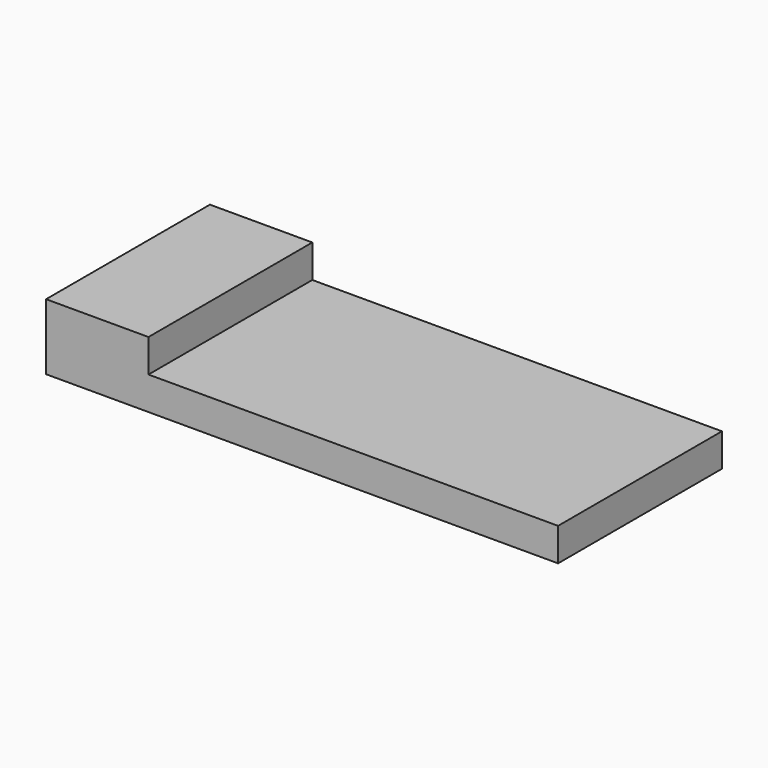
from build123d import *

# Parameters (mm, degrees)
F1_DEPTH = 620
F2_R     = 12.5
F3_DEPTH = 25
F4_W     = 649.177608
F4_H     = 180.000001
F5_DEPTH = 300
F6_W     = 620
F6_H     = 100
F7_DEPTH = 620
F8_R     = 12.5
F9_DEPTH = 25


with BuildPart() as f1:
    # F0 (on Front) → F1 (new body)
    with BuildSketch(Plane.XZ):
        Polygon((266.030722, -36.945744), (266.030722, 63.054256), (-353.969278, 63.054256), (-353.969278, 163.054256), (-663.969278, 163.054256), (-663.969278, -36.945744), (-353.969278, -36.945744), align=None)
    extrude(amount=F1_DEPTH)

    # F2 (on face) → F3 (cut)
    with BuildSketch(Plane(origin=(0, 0, -36.945744), x_dir=(1, 0, 0), z_dir=(0, 0, -1))):
        with Locations((-618.232899, 589.50908)):
            Circle(F2_R)
        with Locations((-618.232899, 30.49092)):
            Circle(F2_R)
        with Locations((220.294342, 589.50908)):
            Circle(F2_R)
        with Locations((220.294342, 30.49092)):
            Circle(F2_R)
    extrude(amount=-F3_DEPTH, mode=Mode.SUBTRACT)

    # F4 (on face) → F5 (cut)
    with BuildSketch(Plane(origin=(-663.969278, 0, 0), x_dir=(0, -1, 0), z_dir=(-1, 0, 0))):
        with Locations((285.411196, 63.054255)):
            Rectangle(F4_W, F4_H)
    extrude(amount=-F5_DEPTH, mode=Mode.SUBTRACT)

    # F6 (on face) → F7 (join, through all)
    with BuildSketch(Plane(origin=(0, 0, 0), x_dir=(-1, 0, 0), z_dir=(0, 1, 0))):
        with Locations((-576.030722, 13.054256)):
            Rectangle(F6_W, F6_H)
    extrude(amount=-F7_DEPTH)

    # F8 (on face) → F9 (cut, through all)
    with BuildSketch(Plane(origin=(0, 0, -36.945744), x_dir=(1, 0, 0), z_dir=(0, 0, -1))):
        with Locations((840.294342, 589.50908)):
            Circle(F8_R)
        with Locations((840.294342, 30.49092)):
            Circle(F8_R)
    extrude(amount=-F9_DEPTH, mode=Mode.SUBTRACT)


solid = f1.part
